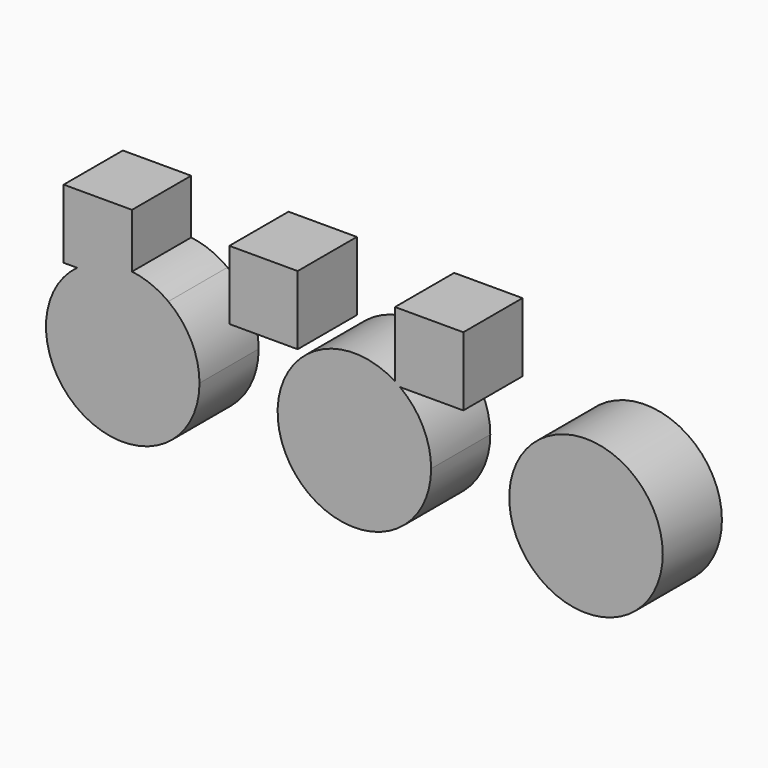
from build123d import *

# Parameters (mm, degrees)
F3_DEPTH = 25
F2_W     = 23.0961740017
F2_H     = 23.2721955981
F2_R     = 25.9475596249


with BuildPart() as f3:
    # F2 (on Front) → F3 (new body)
    with BuildSketch(Plane.XZ):
        with BuildLine():
            Line((5.7860950828, 4.0973043387), (5.7860950828, 2.9515197966))
            Line((5.7860950828, 2.9515197966), (7.4705263631, 2.9515197966))
            ThreePointArc((7.4705263631, 2.9515197966), (6.6395597449, 3.5409493867), (5.7860950828, 4.0973043387))
        make_face()
        with BuildLine():
            Line((7.4705263631, 2.9515197966), (5.7860950828, 2.9515197966))
            Line((5.7860950828, 2.9515197966), (5.7860950828, 4.0973043387))
            ThreePointArc((5.7860950828, 4.0973043387), (-20.5389101587, 4.7778779449), (-33.9018061578, -17.9135762155))
            ThreePointArc((-33.9018061578, -17.9135762155), (-7.9542465329, -43.8611358404), (17.993313092, -17.9135762155))
            ThreePointArc((17.993313092, -17.9135762155), (15.2137385425, -6.2293852707), (7.4705263631, 2.9515197966))
        make_face()
        with BuildLine():
            ThreePointArc((5.7860950828, 4.0973043387), (6.6395597449, 3.5409493867), (7.4705263631, 2.9515197966))
            Line((7.4705263631, 2.9515197966), (28.8822690845, 2.9515197966))
            Line((28.8822690845, 2.9515197966), (28.8822690845, 26.2237153947))
            Line((28.8822690845, 26.2237153947), (5.7860950828, 26.2237153947))
            Line((5.7860950828, 26.2237153947), (5.7860950828, 4.0973043387))
        make_face()
    extrude(amount=F3_DEPTH)


with BuildPart() as f3b:
    # F2 (on Front) → F3, piece 2 (new body)
    with BuildSketch(Plane.XZ):
        with Locations((-38.6658179164, 14.5876175957)):
            Rectangle(F2_W, F2_H)
    extrude(amount=F3_DEPTH)


with BuildPart() as f3c:
    # F2 (on Front) → F3, piece 3 (new body)
    with BuildSketch(Plane.XZ):
        with BuildLine():
            ThreePointArc((-101.6790194289, 2.9515197966), (-97.9384374777, -41.0815612909), (-60.306686908, -17.9135762155))
            ThreePointArc((-60.306686908, -17.9135762155), (-63.0862614575, -6.2293852707), (-70.8294736369, 2.9515197966))
            Line((-70.8294736369, 2.9515197966), (-83.1177309155, 2.9515197966))
            Line((-83.1177309155, 2.9515197966), (-101.6790194289, 2.9515197966))
        make_face()
        with BuildLine():
            Line((-83.1177309155, 2.9515197966), (-70.8294736369, 2.9515197966))
            ThreePointArc((-70.8294736369, 2.9515197966), (-76.6566554499, 6.1937275718), (-83.1177309155, 7.8437163493))
            Line((-83.1177309155, 7.8437163493), (-83.1177309155, 2.9515197966))
        make_face()
        with BuildLine():
            Line((-106.2139049172, 2.9515197966), (-101.6790194289, 2.9515197966))
            ThreePointArc((-101.6790194289, 2.9515197966), (-92.8673935534, 7.1771020729), (-83.1177309155, 7.8437163493))
            Line((-83.1177309155, 7.8437163493), (-83.1177309155, 26.2237153947))
            Line((-83.1177309155, 26.2237153947), (-106.2139049172, 26.2237153947))
            Line((-106.2139049172, 26.2237153947), (-106.2139049172, 2.9515197966))
        make_face()
        with BuildLine():
            ThreePointArc((-83.1177309155, 7.8437163493), (-92.8673935534, 7.1771020729), (-101.6790194289, 2.9515197966))
            Line((-101.6790194289, 2.9515197966), (-83.1177309155, 2.9515197966))
            Line((-83.1177309155, 2.9515197966), (-83.1177309155, 7.8437163493))
        make_face()
    extrude(amount=F3_DEPTH)


with BuildPart() as f3d:
    # F2 (on Front) → F3, piece 4 (new body)
    with BuildSketch(Plane.XZ):
        with Locations((70.3457534671, -17.9135762155)):
            Circle(F2_R)
    extrude(amount=F3_DEPTH)


solid = Compound([f3.part, f3b.part, f3c.part, f3d.part])
